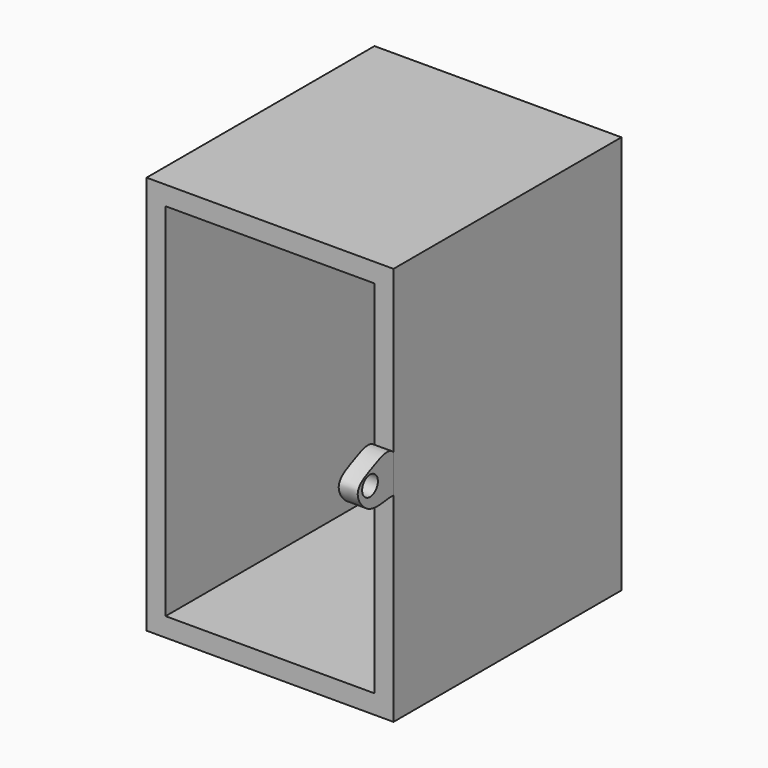
from build123d import *

# Parameters (mm, degrees)
F0_W     = 330.2
F0_H     = 533.4
F0_W_2   = 279.4
F0_H_2   = 482.6
F1_DEPTH = 381
F2_R     = 13.1767847099
F3_DEPTH = 25.4


with BuildPart() as f1:
    # F0 (on Front) → F1 (new body)
    with BuildSketch(Plane.XZ):
        Rectangle(F0_W, F0_H)
        Rectangle(F0_W_2, F0_H_2, mode=Mode.SUBTRACT)
    extrude(amount=F1_DEPTH)


with BuildPart() as f3:
    # F2 (on face) → F3 (new body)
    with BuildSketch(Plane.YZ.offset(165.1)):
        with BuildLine():
            add(Edge.make_bspline(
                [(-381, 0), (-391.2328859775, 1.0955192077), (-422.1322630287, -10.2022549805), (-451.7209861986, 31.6017058231), (-414.3801221271, 47.8663912672), (-389.5769504856, 59.640082987), (-381, 50.9969778359)],
                knots=[0, 0, 0, 0, 0.1828638203, 0.3540017724, 0.5222049189, 0.6912737739, 0.6912737739, 0.6912737739, 0.6912737739], degree=3))
            Line((-381, 0), (-381, 50.9969778359))
        make_face()
        with Locations((-420.2629327774, 27.2923670709)):
            Circle(F2_R, mode=Mode.SUBTRACT)
    extrude(amount=-F3_DEPTH)


solid = Compound([f1.part, f3.part])
